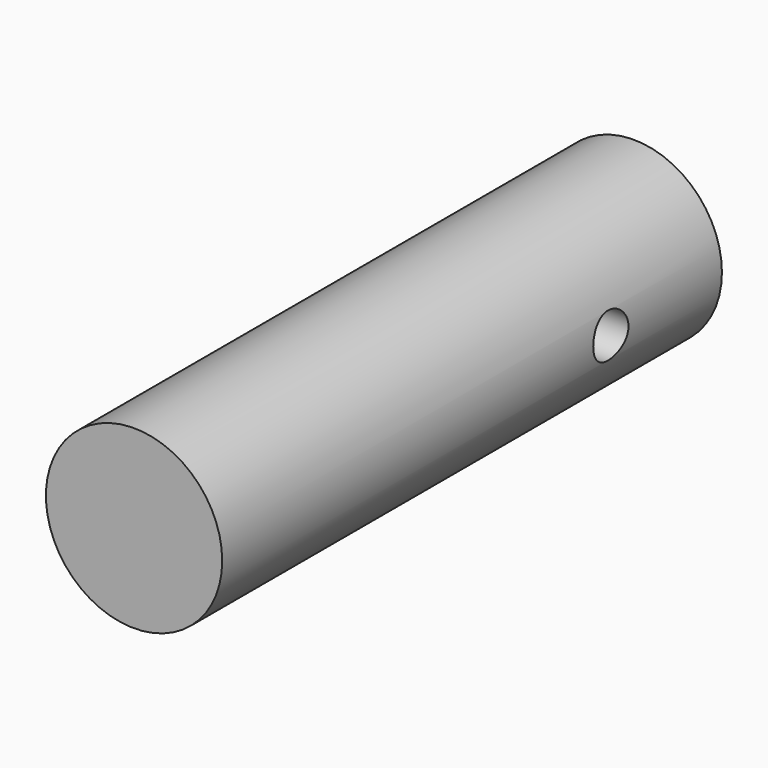
from build123d import *

# Parameters (mm, degrees)
F0_R     = 6.35
F1_DEPTH = 45
F2_R     = 1.5875
F3_DEPTH = 12.5


with BuildPart() as f1:
    # F0 (on Front) → F1 (new body)
    with BuildSketch(Plane.XZ):
        Circle(F0_R)
    extrude(amount=F1_DEPTH)

    # F2 (on Right) → F3 (cut, symmetric)
    with BuildSketch(Plane.YZ):
        with Locations((-10, 0)):
            Circle(F2_R)
    extrude(amount=F3_DEPTH, both=True, mode=Mode.SUBTRACT)


solid = f1.part
